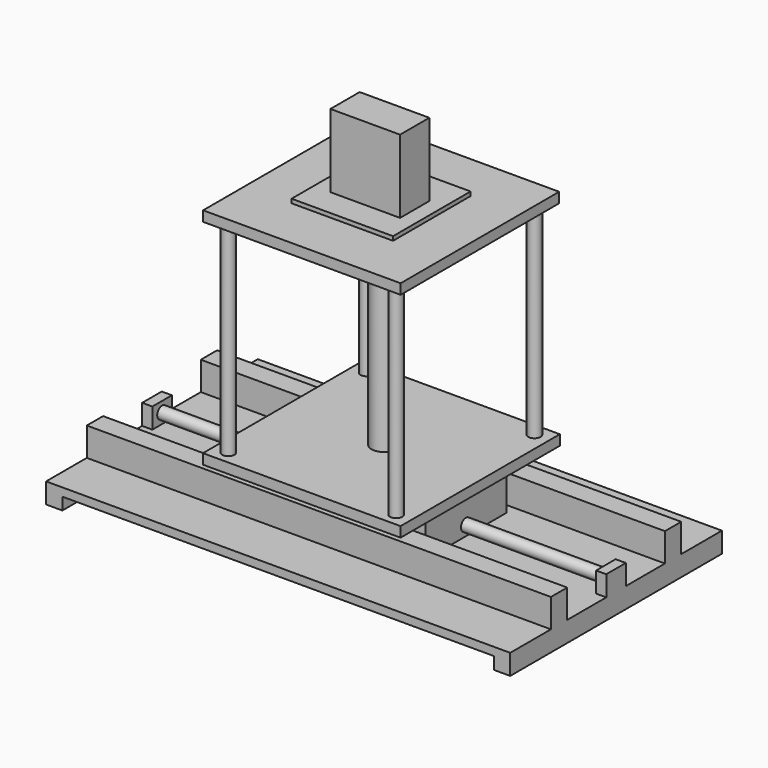
from build123d import *

# Parameters (mm, degrees)
F1_DEPTH  = 650
F2_W      = 60
F2_H      = 50
F3_DEPTH  = 25
F6_R      = 15
F7_DEPTH  = 1090
F8_W      = 1140
F8_H      = 50
F9_DEPTH  = 70
F10_W     = 405.5173546076
F10_H     = 249.8986423016
F11_DEPTH = 110
F12_W     = 485.2297604084
F12_H     = 488.9646247029
F13_DEPTH = 25
F14_R     = 30
F15_DEPTH = 500
F16_W     = 485.1356595755
F16_H     = 486.7420271039
F17_DEPTH = 25
F18_R     = 15
F19_DEPTH = 500
F20_W     = 249.2434680462
F20_H     = 237.9142642021
F21_DEPTH = 10
F22_W     = 171.0648536682
F22_H     = 89.8090600967
F23_DEPTH = 180


with BuildPart() as f1:
    # F0 (on Front) → F1 (new body)
    with BuildSketch(Plane.XZ):
        Polygon((-162.6262263714, 50), (-162.6262263714, 0), (-122.6262263714, 0), (-122.6262263714, 30), (937.3737736286, 30), (937.3737736286, 0), (977.3737736286, 0), (977.3737736286, 50), align=None)
    extrude(amount=F1_DEPTH)

    # F5: F3 across plane


with BuildPart() as f3:
    # F2 (on face) → F3 (new body)
    with BuildSketch(Plane(origin=(-162.6262263714, 0, 0), x_dir=(0, -1, 0), z_dir=(-1, 0, 0))):
        with Locations((325, 75)):
            Rectangle(F2_W, F2_H)
    extrude(amount=-F3_DEPTH)


with BuildPart() as f1_1:
    add(f1.part)
    add(f3.part.mirror(Plane(origin=(407.3737736286, -325, 25), x_dir=(0, -1, 0), z_dir=(-1, 0, 0))))


    add(f3.part)  # F7 merges F3
    # F6 (on face) → F7 (join, through all)
    with BuildSketch(Plane.YZ.offset(-137.6262263714)):
        with Locations((-325, 75)):
            Circle(F6_R)
    extrude(amount=F7_DEPTH)

    # F8 (on face) → F9 (join)
    with BuildSketch(Plane.XY.offset(50)):
        with Locations((407.3737736286, -150)):
            Rectangle(F8_W, F8_H)
        with Locations((407.3737736286, -500)):
            Rectangle(F8_W, F8_H)
    extrude(amount=F9_DEPTH)

    # F10 (on face) → F11 (join)
    with BuildSketch(Plane.XY.offset(50)):
        with Locations((405.6699201465, -324.4320303202)):
            Rectangle(F10_W, F10_H)
    extrude(amount=F11_DEPTH)


with BuildPart() as f13:
    # F12 (on face) → F13 (new body)
    with BuildSketch(Plane.XY.offset(160)):
        with Locations((403.7595242262, -328.4577988088)):
            Rectangle(F12_W, F12_H)
    extrude(amount=F13_DEPTH)


with BuildPart() as f15:
    # F14 (on face) → F15 (new body)
    with BuildSketch(Plane.XY.offset(185)):
        with Locations((410.1851582527, -329.2610049248)):
            Circle(F14_R)
    extrude(amount=F15_DEPTH)


with BuildPart() as f17:
    # F16 (on face) → F17 (new body)
    with BuildSketch(Plane.XY.offset(685)):
        with Locations((403.7595465779, -329.2610011995)):
            Rectangle(F16_W, F16_H)
    extrude(amount=F17_DEPTH)


with BuildPart() as f19:
    # F18 (on face) → F19 (new body, through all)
    with BuildSketch(Plane.XY.offset(185)):
        with Locations((197.7088451385, -116.0343214869)):
            Circle(F18_R)
        with Locations((609.8102033138, -116.0343214869)):
            Circle(F18_R)
        with Locations((197.7088451385, -540.8812761307)):
            Circle(F18_R)
        with Locations((609.8102033138, -540.8812761307)):
            Circle(F18_R)
    extrude(amount=F19_DEPTH)


with BuildPart() as f21:
    # F20 (on face) → F21 (new body)
    with BuildSketch(Plane.XY.offset(710)):
        with Locations((400.2191573381, -325.0125348568)):
            Rectangle(F20_W, F20_H)
    extrude(amount=F21_DEPTH)


with BuildPart() as f23:
    # F22 (on face) → F23 (new body)
    with BuildSketch(Plane.XY.offset(720)):
        with Locations((402.3574590683, -331.4274847507)):
            Rectangle(F22_W, F22_H)
    extrude(amount=F23_DEPTH)


solid = Compound([f1_1.part, f13.part, f15.part, f17.part, f19.part, f21.part, f23.part])
